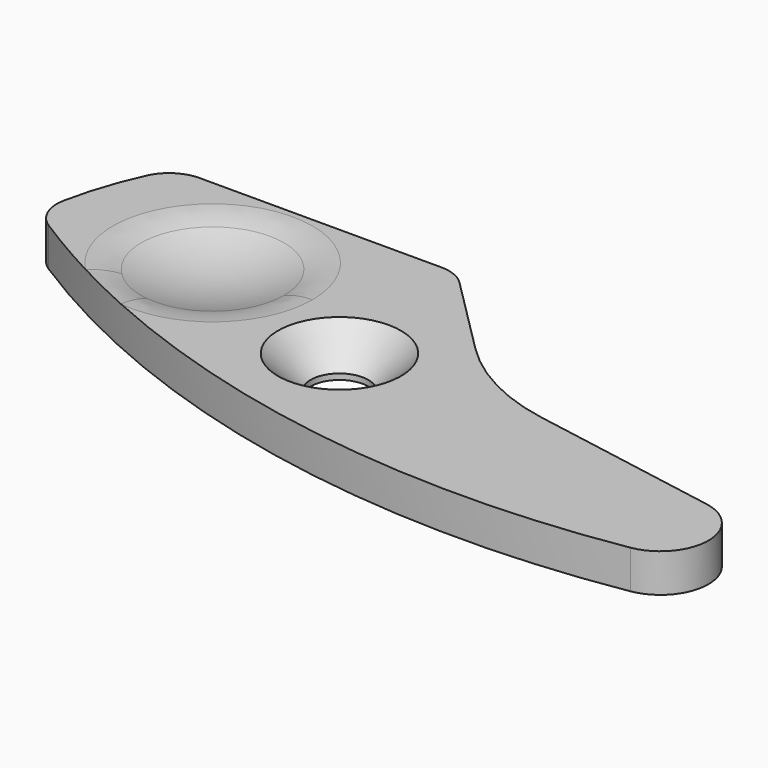
from build123d import *

# Parameters (mm, degrees)
PAD003_DEPTH = 2
FILLET_R     = 4


with BuildPart() as sphere:
    # Sphere → Sphere (revolve)
    with BuildSketch(Plane(origin=(8.5, 27.5, 11), x_dir=(1, 0, 0), z_dir=(0, -1, 0))):
        with BuildLine():
            ThreePointArc((0, -10), (10, 0), (0, 10))
            Line((0, 10), (0, -10))
        make_face()
    revolve(axis=Axis((8.5, 27.5, 11), (0, 0, 1)))


with BuildPart() as clone_of_countersunk002:
    # Sketch007 → Revolution001 (revolve)
    with BuildSketch(Plane.YZ):
        Polygon((3.2, 0), (1.5, -1.7), (1.5, -10), (0, -10), (0, 0), align=None)
    revolve(axis=Axis((0, 0, 0), (0, 0, 1)))


with BuildPart() as clone_of_countersunk002_1:
    # Clone005 placement: moved
    add(clone_of_countersunk002.part.moved(Location((17.5, 24.5, 2))))


with BuildPart() as obj1:
    # Sketch → Pad003 (new body)
    with BuildSketch(Plane.XY):
        with BuildLine():
            ThreePointArc((1.237539, 25.913851), (18.640493, 18.871057), (37.411488, 18.534097))
            ThreePointArc((37.411488, 18.534097), (39.499974, 20.988518), (37.43412, 23.462019))
            Line((27.412694, 25.229067), (37.43412, 23.462019))
            ThreePointArc((21.544649, 28.283778), (24.243589, 26.304833), (27.412694, 25.229067))
            Line((21.544649, 28.283778), (17.414214, 32.414214))
            ThreePointArc((17.414214, 32.414214), (16.765367, 32.847759), (16, 33))
            Line((16, 33), (3.428753, 33))
            ThreePointArc((3.428753, 33), (2.351121, 32.684847), (1.613108, 31.83871))
            ThreePointArc((1.613108, 31.83871), (0.872192, 29.955824), (0.353572, 28))
            ThreePointArc((0.353572, 28), (0.471658, 26.81968), (1.237539, 25.913851))
        make_face()
    extrude(amount=PAD003_DEPTH)

    # Cut003: cut Clone of Countersunk002
    add(clone_of_countersunk002_1.part, mode=Mode.SUBTRACT)

    # Cut004: cut Sphere
    add(sphere.part, mode=Mode.SUBTRACT)

    # Fillet
    fillet_edges = [obj1.edges().sort_by_distance(p)[0] for p in [
        (4.141101, 27.5, 2),
    ]]
    fillet(fillet_edges, radius=FILLET_R)


solid = obj1.part
